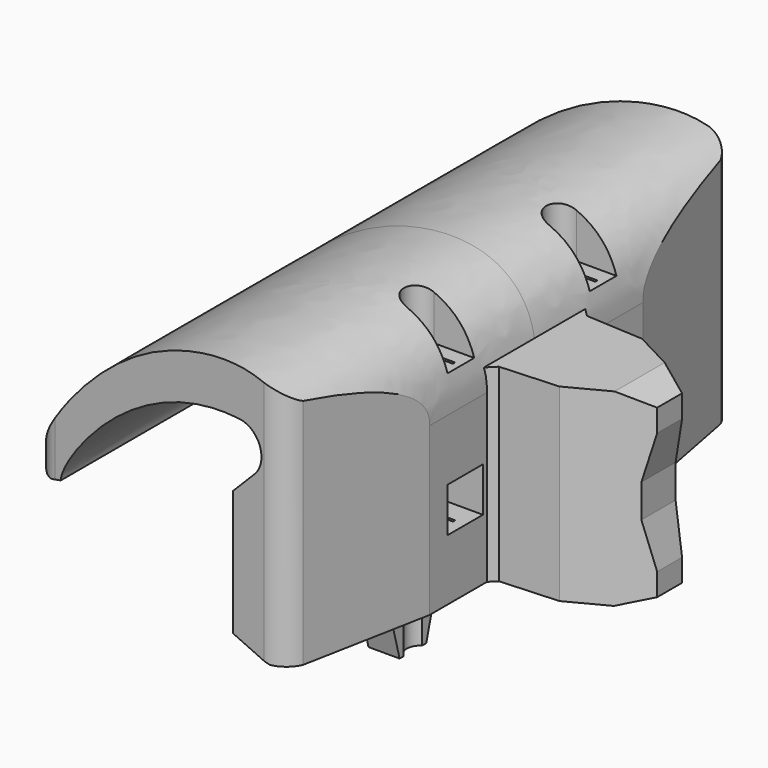
from build123d import *

# Parameters (mm, degrees)
PAD_DEPTH            = 25
PAD001_DEPTH         = 17
SKETCH010_W          = 4
SKETCH010_H          = 4
POCKET001_DEPTH      = 5.4
POCKET002_DEPTH      = 25.001
POCKET002_DEPTH_BACK = -25.001
POCKET003_DEPTH      = 4.701128
PAD002_DEPTH         = 2.8
POCKET_DEPTH         = 22.701128
POCKET_DEPTH_BACK    = 6.001


with BuildPart() as part:
    # Sketch006 → Pad (new body, symmetric)
    with BuildSketch(Plane.XZ):
        with BuildLine():
            Line((4, 0), (4, 15))
            add(Edge.make_bspline(
                [(4, 15), (4.098965, 23.853035), (-13.772522, 24.314798), (-22.552623, 10.026941), (-22.552623, 8.208483)],
                knots=[0, 0, 0, 0, 0.5, 1, 1, 1, 1], degree=3))
            ThreePointArc((-22.552623, 8.208483), (-22.009076, 7.354328), (-21.013898, 7.168194))
            Line((-21.013898, 7.168194), (-20.203391, 7.353433))
            add(Edge.make_bspline(
                [(-3, 18.5), (-13.258017, 19), (-20.203391, 9.17189), (-20.203391, 7.353433)],
                knots=[0, 0, 0, 0, 1, 1, 1, 1], degree=3))
            ThreePointArc((-3, 18.5), (-0.921271, 17.111038), (-1.40901, 14.65901))
            Line((-1.40901, 14.65901), (-3.5, 12.568019))
            Line((-3.5, 12.568019), (-3.5, 1.273896))
            Line((-3.5, 1.273896), (0, 0))
            Line((0, 0), (4, 0))
        make_face()
    extrude(amount=PAD_DEPTH, both=True)

    # Sketch008 → Pad001 (join)
    with BuildSketch(Plane.XY):
        Polygon((3.05, 6.5), (3.05, -6.5), (4.6, -4.95), (9.8, -4.65), (16, -1.4), (16, 1.4), (9.8, 4.65), (4.6, 4.95), align=None)
    extrude(amount=PAD001_DEPTH)

    # Sketch010 → Pocket001 (cut)
    with BuildSketch(Plane.YZ):
        with Locations((8, 7.5)):
            Rectangle(SKETCH010_W, SKETCH010_H)
        with Locations((-8, 7.5)):
            Rectangle(SKETCH010_W, SKETCH010_H)
    extrude(amount=POCKET001_DEPTH, mode=Mode.SUBTRACT)

    # Sketch → Pocket002 (cut, two sides)
    with BuildSketch(Plane.XZ) as pocket002_sk:
        Polygon((10.712347, 17.942363), (19, 17.942363), (19, -0.924548), (10.712347, -0.924548), (16, 1), (16, 3.020802), (15, 7.008907), (15, 10.008907), (16, 13.997012), (16, 16.017814), align=None)
    extrude(amount=-POCKET002_DEPTH, mode=Mode.SUBTRACT)
    extrude(pocket002_sk.sketch, amount=-POCKET002_DEPTH_BACK, mode=Mode.SUBTRACT)

    # Sketch011 → Pocket003 (cut, through all)
    with BuildSketch(Plane.XY.offset(18)):
        with BuildLine():
            ThreePointArc((0, 9.5), (-1.5, 8), (0, 6.5))
            Line((5, 6.5), (0, 6.5))
            Line((5, 9.5), (5, 6.5))
            Line((0, 9.5), (5, 9.5))
        make_face()
        with BuildLine():
            ThreePointArc((0, -6.5), (-1.5, -8), (0, -9.5))
            Line((5, -9.5), (0, -9.5))
            Line((5, -6.5), (5, -9.5))
            Line((0, -6.5), (5, -6.5))
        make_face()
    extrude(amount=POCKET003_DEPTH, mode=Mode.SUBTRACT)

    # Sketch012 → Pad002 (join)
    with BuildSketch(Plane.YZ.offset(-0.699)):
        Polygon((4.356406, 2), (6.5, -6), (9.5, -6), (11.643594, 2), align=None)
        Polygon((-4.356406, 2), (-6.5, -6), (-9.5, -6), (-11.643594, 2), align=None)
    extrude(amount=-PAD002_DEPTH)

    # Sketch009 → Pocket (cut, two sides)
    with BuildSketch(Plane.XY) as pocket_sk:
        with BuildLine():
            ThreePointArc((1.243734, -7.875), (-1.25, -8), (1.243734, -8.125))
            Line((3, -8.125), (1.243734, -8.125))
            Line((3, -7.875), (3, -8.125))
            Line((1.243734, -7.875), (3, -7.875))
        make_face()
        with BuildLine():
            ThreePointArc((1.243734, 8.125), (-1.25, 8), (1.243734, 7.875))
            Line((3, 7.875), (1.243734, 7.875))
            Line((3, 8.125), (3, 7.875))
            Line((1.243734, 8.125), (3, 8.125))
        make_face()
        with BuildLine():
            Line((-34, -26), (4, -26))
            Line((4, -26), (5, -26))
            Line((5, -26), (5, -12))
            Line((5, -12), (4, -12))
            Line((4, -12), (1.8, -23.5))
            ThreePointArc((-0.5, -25), (0.872953, -24.591861), (1.8, -23.5))
            Line((-20.778391, -23.184025), (-0.5, -25))
            ThreePointArc((-22.6, -21.191996), (-22.075937, -22.541667), (-20.778391, -23.184025))
            Line((-34, -22), (-22.6, -21.191996))
            Line((-34, -22), (-34, -26))
        make_face()
        with BuildLine():
            Line((-34, 26), (4, 26))
            Line((4, 26), (5, 26))
            Line((5, 26), (5, 12))
            Line((5, 12), (4, 12))
            Line((1.8, 23.5), (4, 12))
            ThreePointArc((1.8, 23.5), (0.872953, 24.591861), (-0.5, 25))
            Line((-20.778391, 23.184025), (-0.5, 25))
            ThreePointArc((-20.778391, 23.184025), (-22.075937, 22.541667), (-22.6, 21.191997))
            Line((-34, 22), (-22.6, 21.191997))
            Line((-34, 26), (-34, 22))
        make_face()
    extrude(amount=POCKET_DEPTH, mode=Mode.SUBTRACT)
    extrude(pocket_sk.sketch, amount=-POCKET_DEPTH_BACK, mode=Mode.SUBTRACT)


solid = part.part
